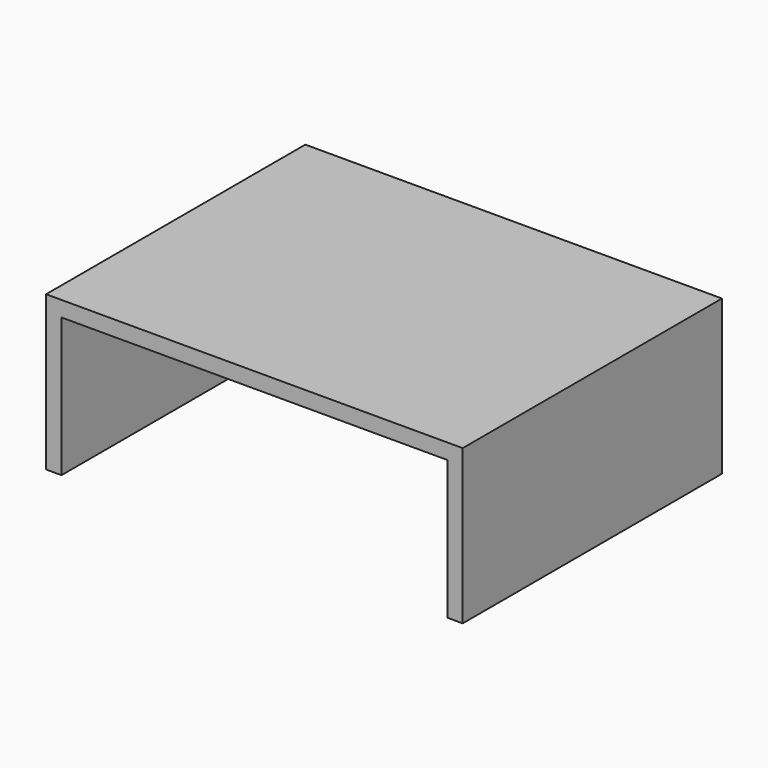
from build123d import *

# Parameters (mm, degrees)
F0_W     = 2.54
F0_H     = 53.34
F0_W_2   = 58.42
F1_DEPTH = 25.4
F2_DEPTH = 22.86
F3_DEPTH = 22.86


with BuildPart() as f1:
    # F0 (on Top) → F1 (new body)
    with BuildSketch(Plane.XY):
        with Locations((-33.02, 0)):
            Rectangle(F0_W, F0_H)
        with Locations((-30.48, 0)):
            Rectangle(F0_W, F0_H)
        Rectangle(F0_W_2, F0_H)
        with Locations((30.48, 0)):
            Rectangle(F0_W, F0_H)
        with Locations((33.02, 0)):
            Rectangle(F0_W, F0_H)
    extrude(amount=F1_DEPTH)

    # F0 (on Top) → F2 (cut)
    with BuildSketch(Plane.XY):
        with Locations((-30.48, 0)):
            Rectangle(F0_W, F0_H)
        with Locations((30.48, 0)):
            Rectangle(F0_W, F0_H)
    extrude(amount=F2_DEPTH, mode=Mode.SUBTRACT)

    # F0 (on Top) → F3 (cut)
    with BuildSketch(Plane.XY):
        Rectangle(F0_W_2, F0_H)
    extrude(amount=F3_DEPTH, mode=Mode.SUBTRACT)


solid = f1.part
